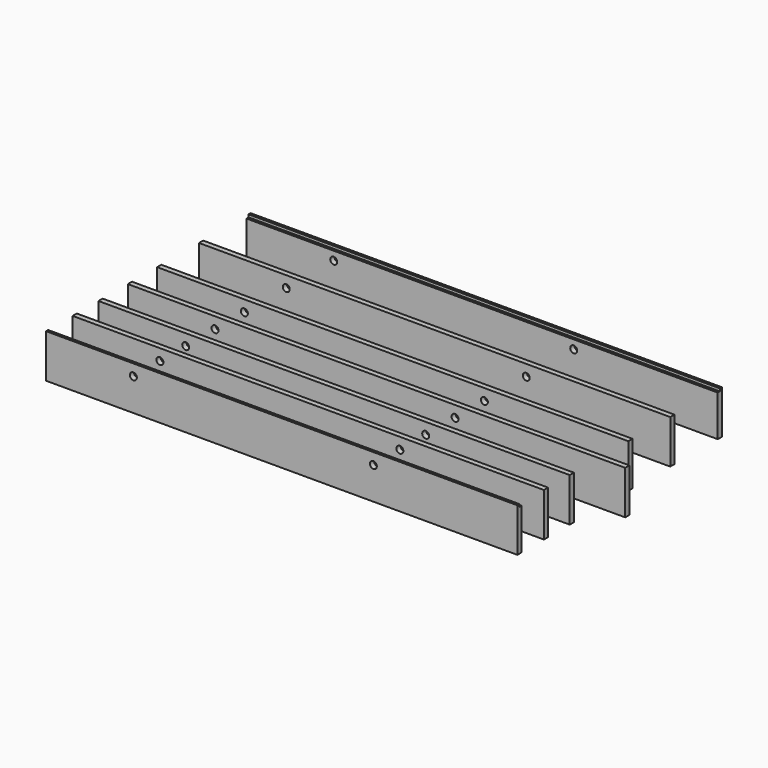
from build123d import *

# Parameters (mm, degrees)
F0_W      = 540
F0_H      = 50
F1_DEPTH  = 6
F2_R      = 4
F3_DEPTH  = 25
F10_DEPTH = 30
F11_W     = 3
F11_H     = 3
F12_DEPTH = 560
F13_W     = 3
F13_H     = 3
F14_DEPTH = 560


with BuildPart() as f1:
    # F0 (on Front) → F1 (new body)
    with BuildSketch(Plane.XZ):
        Rectangle(F0_W, F0_H)
    extrude(amount=F1_DEPTH)

    # F2 (on face) → F3 (cut)
    with BuildSketch(Plane.XZ.offset(6)):
        with Locations((-170, 12)):
            Circle(F2_R)
        with Locations((105, 12)):
            Circle(F2_R)
    extrude(amount=-F3_DEPTH, mode=Mode.SUBTRACT)


with BuildPart() as f4_1:
    # F4: copy of F1
    add(f1.part.moved(Location((0, 38, 0))))


with BuildPart() as f5_1:
    # F5: copy of F4_1
    add(f4_1.part.moved(Location((0, 37, 0))))


with BuildPart() as f6_1:
    # F6: copy of F5_1
    add(f5_1.part.moved(Location((0, 42, 0))))


with BuildPart() as f7_1:
    # F7: copy of F6_1
    add(f6_1.part.moved(Location((0, 42, 0))))


with BuildPart() as f8_1:
    # F8: copy of F7_1
    add(f7_1.part.moved(Location((0, 60, 0))))


with BuildPart() as f9_1:
    # F9: copy of F8_1
    add(f8_1.part.moved(Location((0, 68, 0))))

    # F11 (on face) → F12 (cut)
    with BuildSketch(Plane.YZ.offset(270)):
        with Locations((282.5, 23.5)):
            Rectangle(F11_W, F11_H)
    extrude(amount=-F12_DEPTH, mode=Mode.SUBTRACT)


with BuildPart() as f6_1_1:
    add(f6_1.part)

    # F10 (add): a face of the model
    f10_faces = [f6_1_1.faces().sort_by_distance(p)[0] for p in [
        (270, 114, 0),
    ]]
    extrude(f10_faces, amount=F10_DEPTH)


with BuildPart() as f1_1:
    add(f1.part)

    # F13 (on face) → F14 (cut)
    with BuildSketch(Plane.YZ.offset(270)):
        with Locations((-1.5, 23.5)):
            Rectangle(F13_W, F13_H)
    extrude(amount=-F14_DEPTH, mode=Mode.SUBTRACT)


solid = Compound([f4_1.part, f5_1.part, f7_1.part, f8_1.part, f9_1.part, f6_1_1.part, f1_1.part])
